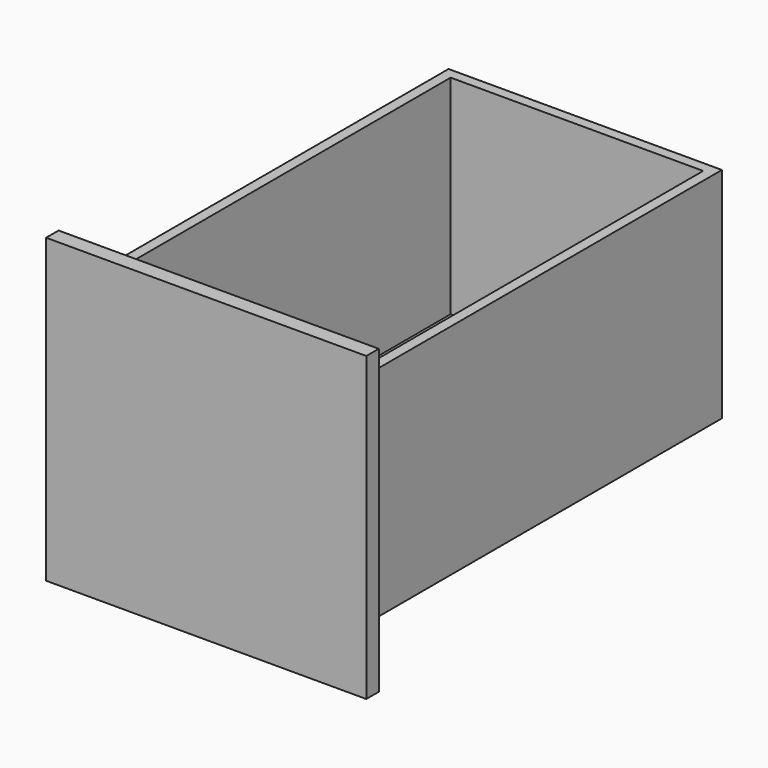
from build123d import *

# Parameters (mm, degrees)
F0_W     = 390.525
F0_H     = 368.3
F1_DEPTH = 19.05
F3_DEPTH = 558.8
F4_W     = 307.975
F4_H     = 533.4
F5_DEPTH = 254


with BuildPart() as f1:
    # F0 (on Front) → F1 (new body)
    with BuildSketch(Plane.XZ):
        Rectangle(F0_W, F0_H)
    extrude(amount=F1_DEPTH)

    # F2 (on face) → F3 (join)
    with BuildSketch(Plane(origin=(0, 0, 0), x_dir=(-1, 0, 0), z_dir=(0, 1, 0))):
        Polygon((-166.6875, -127), (0, -127), (166.6875, -127), (166.6875, 139.7), (-166.6875, 139.7), align=None)
    extrude(amount=F3_DEPTH)

    # F4 (on face) → F5 (cut)
    with BuildSketch(Plane.XY.offset(139.7)):
        with Locations((0, 279.4)):
            Rectangle(F4_W, F4_H)
    extrude(amount=-F5_DEPTH, mode=Mode.SUBTRACT)


solid = f1.part
